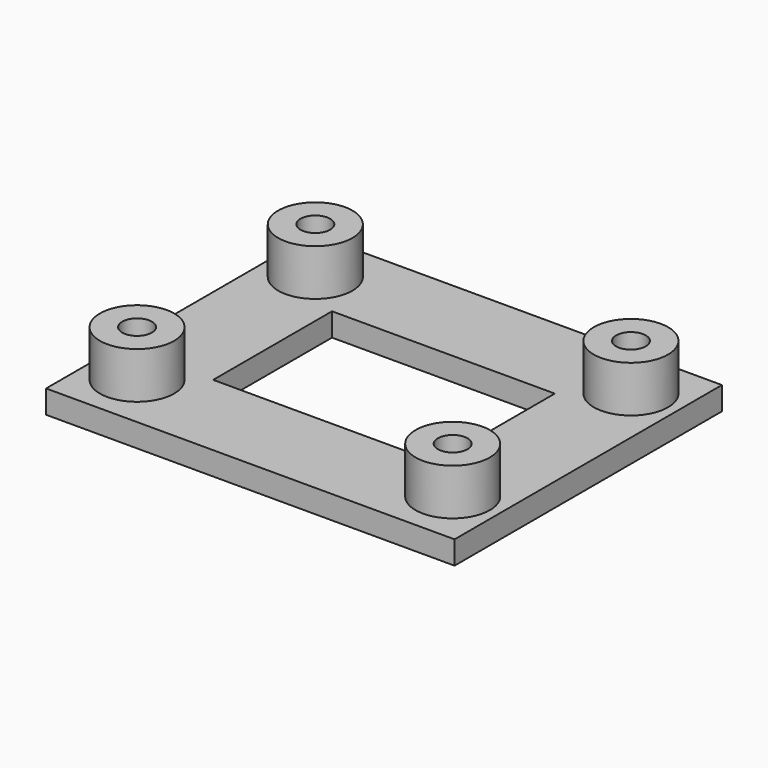
from build123d import *

# Parameters (mm, degrees)
F0_W     = 27.94
F0_H     = 22.86
F0_W_2   = 15.24
F0_H_2   = 10.16
F1_DEPTH = 1.5875
F2_R     = 2.54
F2_R_2   = 1.016
F3_DEPTH = 3.175
F4_DEPTH = 25.4


with BuildPart() as f1:
    # F0 (on Top) → F1 (new body)
    with BuildSketch(Plane.XY):
        Rectangle(F0_W, F0_H)
        Rectangle(F0_W_2, F0_H_2, mode=Mode.SUBTRACT)
    extrude(amount=F1_DEPTH)

    # F2 (on face) → F3 (join)
    with BuildSketch(Plane.XY.offset(1.5875)):
        with Locations((-10.795, -7.62)):
            Circle(F2_R)
        with Locations((-10.795, -7.62)):
            Circle(F2_R_2, mode=Mode.SUBTRACT)
        with Locations((-10.795, 7.62)):
            Circle(F2_R)
        with Locations((-10.795, 7.62)):
            Circle(F2_R_2, mode=Mode.SUBTRACT)
        with Locations((10.795, -7.62)):
            Circle(F2_R)
        with Locations((10.795, -7.62)):
            Circle(F2_R_2, mode=Mode.SUBTRACT)
        with Locations((10.795, 7.62)):
            Circle(F2_R)
        with Locations((10.795, 7.62)):
            Circle(F2_R_2, mode=Mode.SUBTRACT)
    extrude(amount=F3_DEPTH)

    # F2 (on face) → F4 (cut)
    with BuildSketch(Plane.XY.offset(1.5875)):
        with Locations((10.795, -7.62)):
            Circle(F2_R_2)
        with Locations((10.795, 7.62)):
            Circle(F2_R_2)
        with Locations((-10.795, 7.62)):
            Circle(F2_R_2)
        with Locations((-10.795, -7.62)):
            Circle(F2_R_2)
    extrude(amount=-F4_DEPTH, mode=Mode.SUBTRACT)


solid = f1.part
